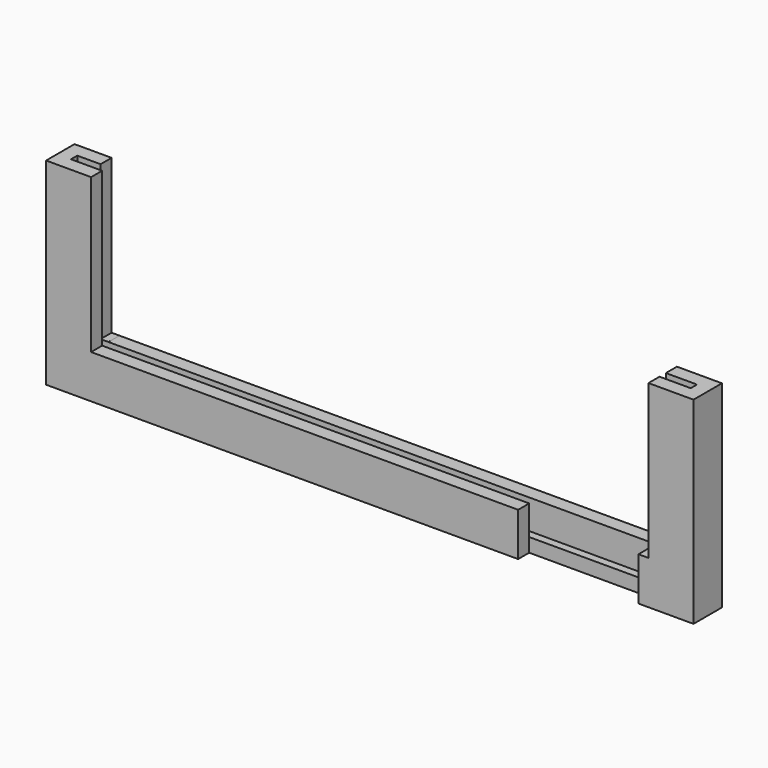
from build123d import *

# Parameters (mm, degrees)
F0_W     = 82
F0_H     = 25
F1_DEPTH = 4.5
F2_T     = -1.75
F3_W     = 70.6
F3_H     = 19.5
F4_DEPTH = 50.8
F5_W     = 1
F5_H     = 1.75
F6_DEPTH = 19.49958
F7_W     = 15.24
F7_H     = 5.5
F8_DEPTH = 1.75006


with BuildPart() as f1:
    # F0 (on Front) → F1 (new body)
    with BuildSketch(Plane.XZ):
        Rectangle(F0_W, F0_H)
    extrude(amount=F1_DEPTH)

    # F2
    f2_openings = [f1.faces().sort_by_distance(p)[0] for p in [
        (0, -2.25, 12.5),
    ]]
    offset(amount=F2_T, openings=f2_openings)

    # F3 (on face) → F4 (cut)
    with BuildSketch(Plane.XZ.offset(4.5)):
        with Locations((0, 2.75)):
            Rectangle(F3_W, F3_H)
    extrude(amount=-F4_DEPTH, mode=Mode.SUBTRACT)

    # F5 (on face) → F6 (cut)
    with BuildSketch(Plane.XY.offset(12.5)):
        with Locations((-35.8, -0.875)):
            Rectangle(F5_W, F5_H)
    extrude(amount=-F6_DEPTH, mode=Mode.SUBTRACT)

    # F7 (on face) → F8 (cut)
    with BuildSketch(Plane.XZ.offset(4.5)):
        with Locations((26.41, -9.75)):
            Rectangle(F7_W, F7_H)
    extrude(amount=-F8_DEPTH, mode=Mode.SUBTRACT)


solid = f1.part
